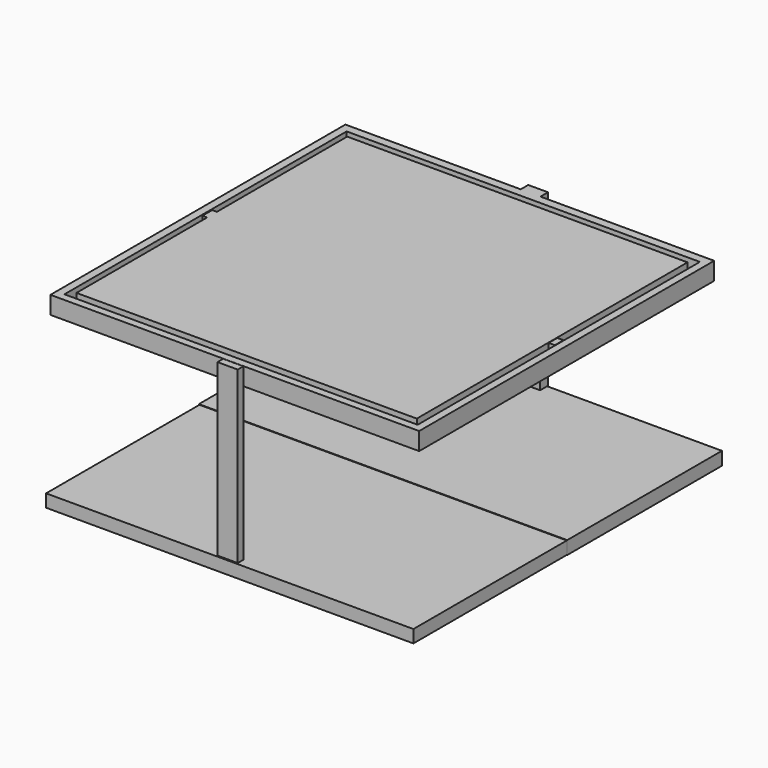
from build123d import *

# Parameters (mm, degrees)
F0_W      = 150.0364542007
F0_H      = 150.0364542007
F1_DEPTH  = 7.2
F2_W      = 138.4677812457
F2_H      = 137.7016976476
F3_DEPTH  = 7.3
F4_W      = 1.9151866436
F4_H      = 4.979477264
F5_DEPTH  = 7.2
F4_W_2    = 2.4897307158
F4_H_2    = 4.4049224816
F6_W      = 8.0437709112
F6_H      = 4.0218830109
F7_DEPTH  = 69.3
F6_W_2    = 8.2352899481
F6_H_2    = 2.8727799654
F8_W      = 149.8450785875
F8_H      = 5.3584426641
F9_DEPTH  = 78.7
F10_W     = 149.4623422623
F10_H     = 5.1670670509
F11_DEPTH = 78


with BuildPart() as f1:
    # F0 (on Top) → F1 (new body)
    with BuildSketch(Plane.XY):
        with Locations((-0.0956878066, -0.0956878066)):
            Rectangle(F0_W, F0_H)
        Polygon((-71.8605741858, -72.0519423485), (-71.8605741858, 71.47783041), (-2.5835367851, 71.47783041), (2.5835365523, 71.47783041), (71.8605741858, 71.47783041), (71.8605741858, -72.0519423485), (2.5835365523, -72.0519423485), (-2.5835367851, -72.0519423485), align=None, mode=Mode.SUBTRACT)
    extrude(amount=-F1_DEPTH)

    # F6 (on Top) → F7 (join)
    with BuildSketch(Plane.XY):
        with Locations((0.2303215442, 76.7419114709)):
            Rectangle(F6_W, F6_H)
    extrude(amount=-F7_DEPTH)


with BuildPart() as f3:
    # F2 (on Top) → F3 (new body)
    with BuildSketch(Plane.XY):
        with Locations((-0.2484731376, -0.0569559634)):
            Rectangle(F2_W, F2_H)
    extrude(amount=-F3_DEPTH)

    # F4 (on Top) → F5 (join)
    with BuildSketch(Plane.XY):
        with Locations((-70.4399570823, 0.0388030894)):
            Rectangle(F4_W, F4_H)
    extrude(amount=-F5_DEPTH)


with BuildPart() as f5:
    # F4 (on Top) → F5, piece 2 (new body)
    with BuildSketch(Plane.XY):
        with Locations((70.4218000174, 0.134562375)):
            Rectangle(F4_W_2, F4_H_2)
    extrude(amount=-F5_DEPTH)


with BuildPart() as f7:
    # F6 (on Top) → F7, piece 2 (new body)
    with BuildSketch(Plane.XY):
        with Locations((-0.631511095, -76.6642987728)):
            Rectangle(F6_W_2, F6_H_2)
    extrude(amount=-F7_DEPTH)


with BuildPart() as f9:
    # F8 (on Front) → F9 (new body)
    with BuildSketch(Plane.XZ):
        with Locations((0.1344159245, -72.2433179617)):
            Rectangle(F8_W, F8_H)
    extrude(amount=-F9_DEPTH)

    # F10 (on Front) → F11 (join)
    with BuildSketch(Plane.XZ):
        with Locations((0.1628920436, -72.3390057683)):
            Rectangle(F10_W, F10_H)
    extrude(amount=F11_DEPTH)


solid = Compound([f1.part, f3.part, f5.part, f7.part, f9.part])
